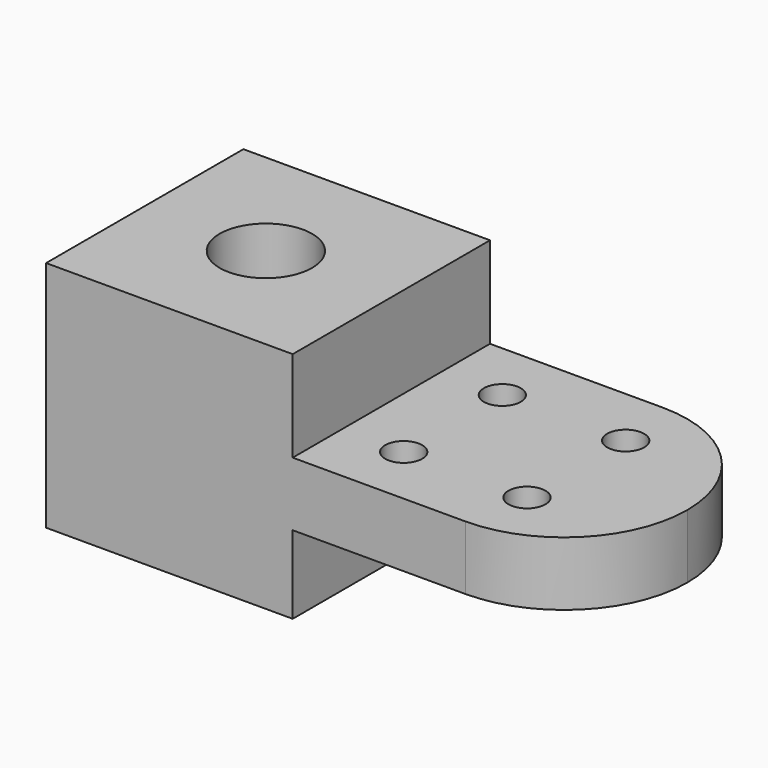
from build123d import *

# Parameters (mm, degrees)
F1_DEPTH = 50.8
F3_D     = 19.05
F2_R     = 3.81
F4_DEPTH = 47.9967516642


with BuildPart() as f1:
    # F0 (on Front) → F1 (new body)
    with BuildSketch(Plane.XZ):
        Polygon((0, 47.9957516642), (0, 0), (50.8, 0), (50.8, 16.0704886385), (111.76, 16.0704886385), (111.76, 29.228876307), (50.8, 29.228876307), (50.8, 47.9957516642), align=None)
    extrude(amount=F1_DEPTH)

    # F3 (through all)
    with Locations(Plane(origin=(0, 0, 0), x_dir=(1, 0, 0), z_dir=(0, 0, -1))):
        with Locations((24.9511450529, 25.4)):
            Hole(F3_D / 2)

    # F2 (on Top) → F4 (cut, through all)
    with BuildSketch(Plane.XY):
        with Locations((63.5, -12.7)):
            Circle(F2_R)
        with Locations((63.5, -38.1)):
            Circle(F2_R)
        with Locations((88.9, -12.7)):
            Circle(F2_R)
        with Locations((88.9, -38.1)):
            Circle(F2_R)
        with BuildLine():
            Line((111.76, -50.8), (111.76, -25.4))
            ThreePointArc((111.76, -25.4), (104.3205122421, -43.3605122421), (86.36, -50.8))
            Line((86.36, -50.8), (88.9, -50.8))
            Line((88.9, -50.8), (111.76, -50.8))
        make_face()
        with BuildLine():
            Line((88.9, 0), (86.36, 0))
            ThreePointArc((86.36, 0), (104.3205122421, -7.4394877579), (111.76, -25.4))
            Line((111.76, -25.4), (111.76, 0))
            Line((111.76, 0), (88.9, 0))
        make_face()
    extrude(amount=F4_DEPTH, mode=Mode.SUBTRACT)


solid = f1.part
